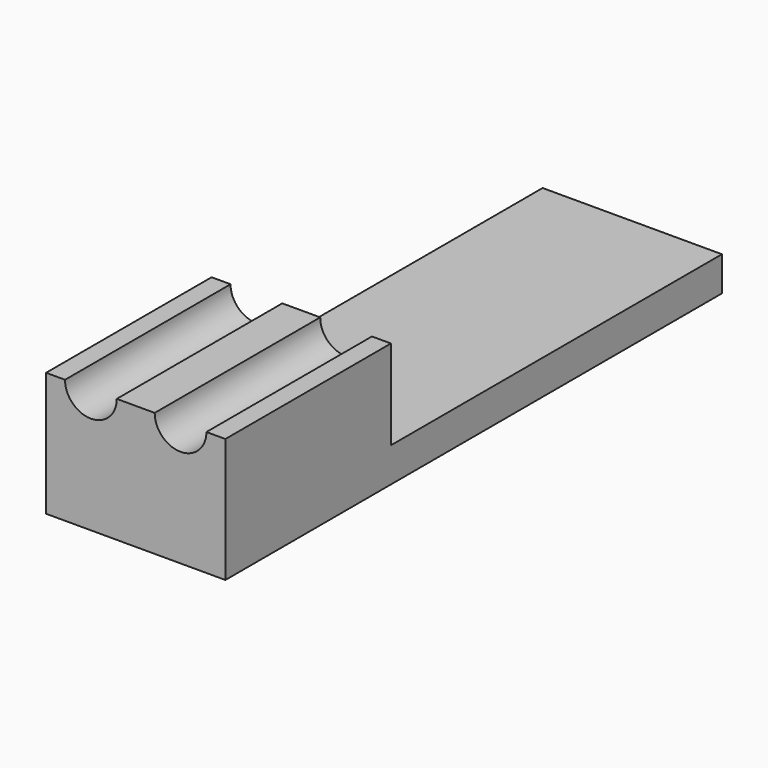
from build123d import *

# Parameters (mm, degrees)
BOX021_W          = 30
BOX021_H          = 20
BOX021_DEPTH      = 9.2
BOX006_W          = 26
BOX006_H          = 12
BOX006_DEPTH      = 5.2
CYLINDER001_R     = 0.75
CYLINDER001_DEPTH = 7
ARRAY001_X_COUNT  = 2
ARRAY001_X_PITCH  = 2.6
ARRAY001_Y_COUNT  = 2
ARRAY001_Y_PITCH  = 1
BOX001_W          = 5.2
BOX001_H          = 18
BOX001_DEPTH      = 7.2


with BuildPart() as obj1:
    # Box021 → Box021 (new body)
    with BuildSketch(Plane(origin=(-1, -2, 3.6), x_dir=(1, 0, 0), z_dir=(0, 0, 1))):
        with Locations((15, 10)):
            Rectangle(BOX021_W, BOX021_H)
    extrude(amount=BOX021_DEPTH)


with BuildPart() as cube_10_base003:
    # Box006 → Box006 (new body)
    with BuildSketch(Plane(origin=(0, 6, 1), x_dir=(1, 0, 0), z_dir=(0, 0, 1))):
        with Locations((13, 6)):
            Rectangle(BOX006_W, BOX006_H)
    extrude(amount=BOX006_DEPTH)


with BuildPart() as array001:
    # Cylinder001 → Cylinder001 (new body)
    with BuildSketch(Plane(origin=(1.3, -1, 3.6), x_dir=(1, 0, 0), z_dir=(0, 1, 0))):
        Circle(CYLINDER001_R)
    extrude(amount=CYLINDER001_DEPTH)

    # Array001 X: Array001 ×2


with BuildPart() as array001_1:
    add(array001.part)
    with Locations(*[(i * ARRAY001_X_PITCH, 0, 0) for i in range(1, ARRAY001_X_COUNT)]):
        add(array001.part)

    # Array001 Y: Array001 ×2


with BuildPart() as array001_2:
    add(array001_1.part)
    with Locations(*[(0, i * ARRAY001_Y_PITCH, 0) for i in range(1, ARRAY001_Y_COUNT)]):
        add(array001_1.part)


with BuildPart() as obj2:
    # Box001 → Box001 (new body)
    with BuildSketch(Plane.XY):
        with Locations((2.6, 9)):
            Rectangle(BOX001_W, BOX001_H)
    extrude(amount=BOX001_DEPTH)

    # Cut001: cut Array001
    add(array001_2.part, mode=Mode.SUBTRACT)

    # Cut007: cut cube_10_base003
    add(cube_10_base003.part, mode=Mode.SUBTRACT)

    # Cut017: cut obj1
    add(obj1.part, mode=Mode.SUBTRACT)


solid = obj2.part
